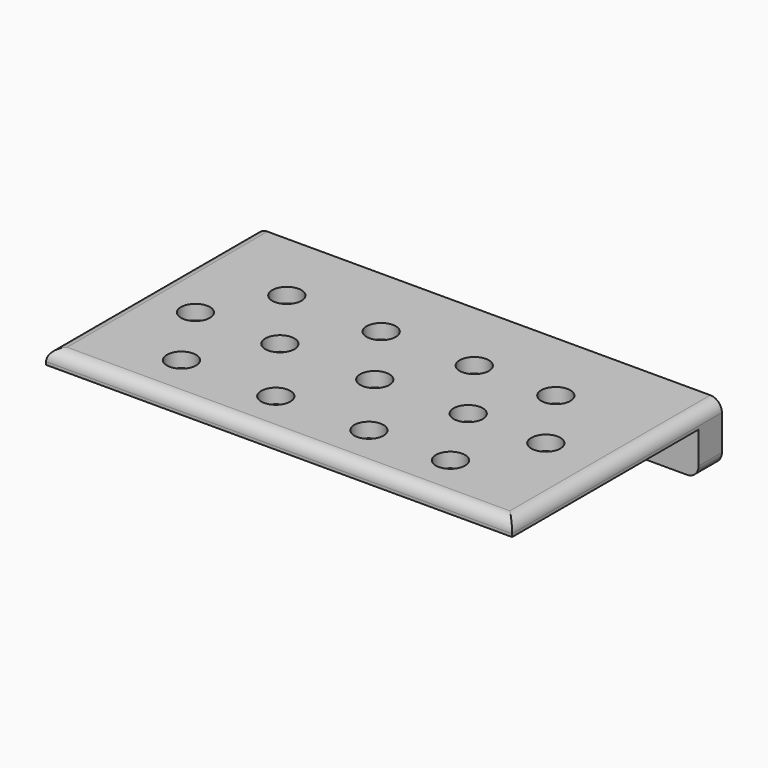
from build123d import *

# Parameters (mm, degrees)
F0_W          = 203.2
F0_H          = 114.3
F1_DEPTH      = 6.35
F2_W          = 12.7
F2_H          = 19.05
F3_DEPTH      = 101.6
F3_DEPTH_BACK = 101.6
F4_R          = 5.08
F5_R          = 6.35
F6_DEPTH      = 25.401
F7_R          = 5.08
F8_R          = 6.6675
F9_DEPTH      = 6.985


with BuildPart() as f1:
    # F0 (on Top) → F1 (new body)
    with BuildSketch(Plane.XY):
        Rectangle(F0_W, F0_H)
    extrude(amount=F1_DEPTH)

    # F2 (on Right) → F3 (join, two sides)
    with BuildSketch(Plane.YZ) as f3_sk:
        with Locations((50.799921, -9.525)):
            Rectangle(F2_W, F2_H)
    extrude(amount=F3_DEPTH)
    extrude(f3_sk.sketch, amount=-F3_DEPTH_BACK)

    # F4
    f4_edges = [f1.edges().sort_by_distance(p)[0] for p in [
        (0, -57.15, 6.35),
        (-101.6, 0, 6.35),
        (101.6, 0, 6.35),
    ]]
    fillet(f4_edges, radius=F4_R)

    # F5 (on face) → F6 (cut, through all)
    with BuildSketch(Plane.XY.offset(6.35)):
        with Locations((-78.426103, -4.711303)):
            Circle(F5_R)
        with Locations((-20.260678, 23.779948)):
            Circle(F5_R)
        with Locations((-61.966335, 24.507631)):
            Circle(F5_R)
        with Locations((21.941006, -35.661693)):
            Circle(F5_R)
        with Locations((20.165849, 23.982559)):
            Circle(F5_R)
        with Locations((0.156766, -5.214806)):
            Circle(F5_R)
        with Locations((55.660779, 24.058)):
            Circle(F5_R)
        with Locations((74.909535, -5.441051)):
            Circle(F5_R)
        with Locations((-41.548885, -4.813123)):
            Circle(F5_R)
        with Locations((-18.485521, -35.864305)):
            Circle(F5_R)
        with Locations((40.667439, -4.943789)):
            Circle(F5_R)
        with Locations((-60.191178, -35.136622)):
            Circle(F5_R)
        with Locations((57.435936, -35.586253)):
            Circle(F5_R)
    extrude(amount=-F6_DEPTH, mode=Mode.SUBTRACT)

    # F7
    f7_edges = [f1.edges().sort_by_distance(p)[0] for p in [
        (-101.6, 50.799921, -19.05),
        (101.6, 50.799921, -19.05),
    ]]
    fillet(f7_edges, radius=F7_R)

    # F8 (on face) → F9 (cut)
    with BuildSketch(Plane(origin=(0, 57.149921, 0), x_dir=(-1, 0, 0), z_dir=(0, 1, 0))):
        with Locations((-45.212, -8.569174)):
            Circle(F8_R)
        with Locations((-88.9, -8.569174)):
            Circle(F8_R)
        with Locations((-1.524, -8.569174)):
            Circle(F8_R)
        with Locations((42.164, -8.569174)):
            Circle(F8_R)
        with Locations((85.852, -8.569174)):
            Circle(F8_R)
    extrude(amount=-F9_DEPTH, mode=Mode.SUBTRACT)


solid = f1.part
